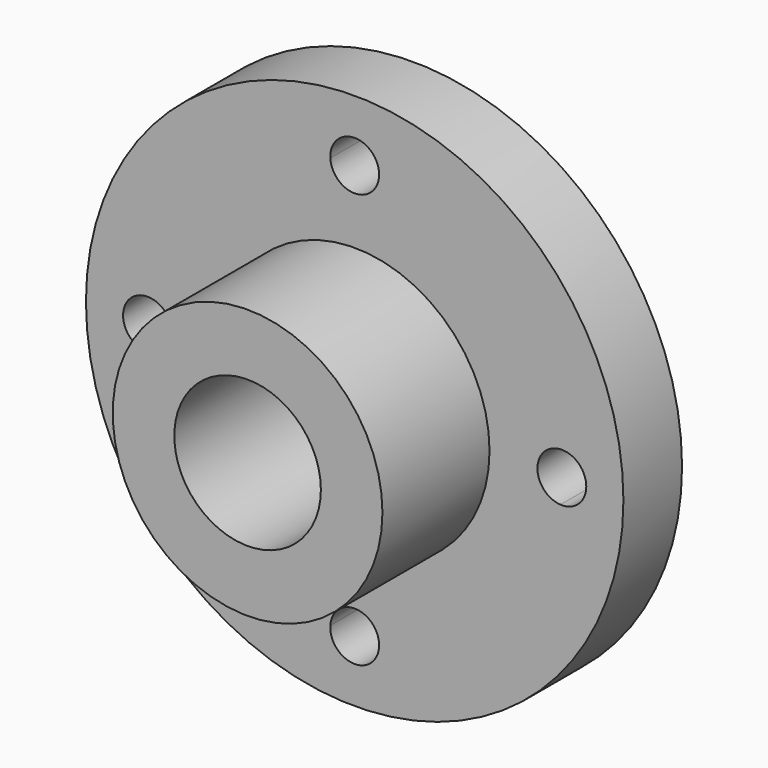
from build123d import *

# Parameters (mm, degrees)
F0_R     = 35.052
F0_R_2   = 19.05
F1_DEPTH = 53.848
F0_R_3   = 69.85
F2_DEPTH = 19.05


with BuildPart() as f1:
    # F0 (on Front) → F1 (new body)
    with BuildSketch(Plane.XZ):
        Circle(F0_R)
        Circle(F0_R_2, mode=Mode.SUBTRACT)
    extrude(amount=F1_DEPTH)

    # F0 (on Front) → F2 (join)
    with BuildSketch(Plane.XZ):
        Circle(F0_R_3)
        with BuildLine():
            ThreePointArc((6.338952, 53.47359), (38.076286, 38.076286), (53.47359, 6.338952))
            ThreePointArc((53.47359, 6.338952), (58.203743, 4.620606), (60.198, 0))
            ThreePointArc((60.198, 0), (58.203743, -4.620606), (53.47359, -6.338952))
            ThreePointArc((53.47359, -6.338952), (38.076286, -38.076286), (6.338952, -53.47359))
            ThreePointArc((6.338952, -53.47359), (6.347237, -53.660713), (6.35, -53.848))
            ThreePointArc((6.35, -53.848), (-0.187287, -60.195237), (-6.338952, -53.47359))
            ThreePointArc((-6.338952, -53.47359), (-38.076286, -38.076286), (-53.47359, -6.338952))
            ThreePointArc((-53.47359, -6.338952), (-60.198, 0), (-53.47359, 6.338952))
            ThreePointArc((-53.47359, 6.338952), (-38.076286, 38.076286), (-6.338952, 53.47359))
            ThreePointArc((-6.338952, 53.47359), (-0.187287, 60.195237), (6.35, 53.848))
            ThreePointArc((6.35, 53.848), (6.347237, 53.660713), (6.338952, 53.47359))
        make_face(mode=Mode.SUBTRACT)
        with BuildLine():
            ThreePointArc((53.47359, -6.338952), (47.498, 0), (53.47359, 6.338952))
            ThreePointArc((53.47359, 6.338952), (38.076286, 38.076286), (6.338952, 53.47359))
            ThreePointArc((6.338952, 53.47359), (0, 47.498), (-6.338952, 53.47359))
            ThreePointArc((-6.338952, 53.47359), (-38.076286, 38.076286), (-53.47359, 6.338952))
            ThreePointArc((-53.47359, 6.338952), (-49.227394, 4.355743), (-47.498, 0))
            ThreePointArc((-47.498, 0), (-49.227394, -4.355743), (-53.47359, -6.338952))
            ThreePointArc((-53.47359, -6.338952), (-38.076286, -38.076286), (-6.338952, -53.47359))
            ThreePointArc((-6.338952, -53.47359), (0, -47.498), (6.338952, -53.47359))
            ThreePointArc((6.338952, -53.47359), (38.076286, -38.076286), (53.47359, -6.338952))
        make_face()
        Circle(F0_R, mode=Mode.SUBTRACT)
    extrude(amount=F2_DEPTH)


solid = f1.part
